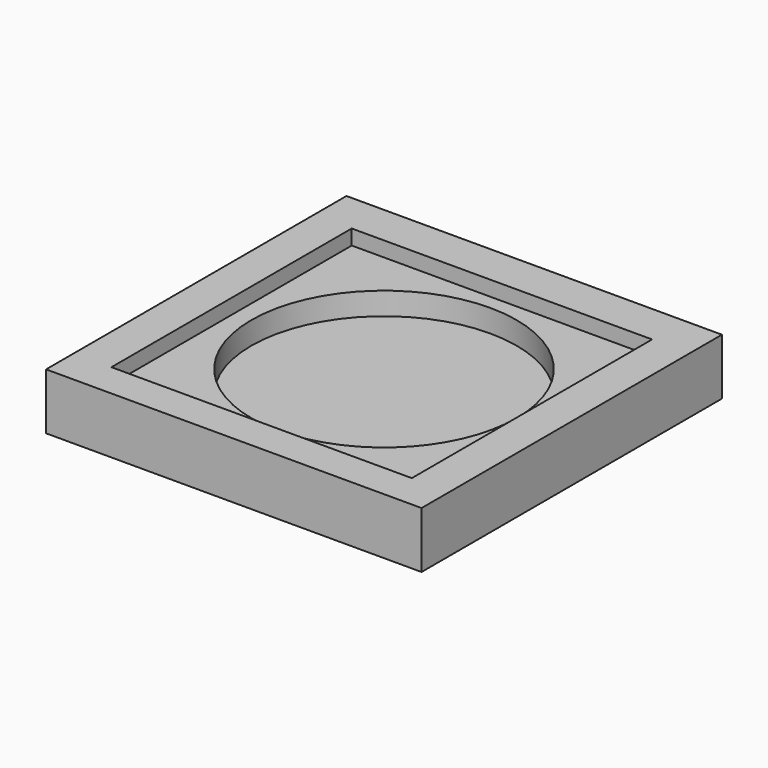
from build123d import *

# Parameters (mm, degrees)
F0_W     = 127
F0_H     = 127
F1_DEPTH = 7.62
F2_W     = 127
F2_H     = 127
F3_DEPTH = 11.43
F4_W     = 101.6
F4_H     = 101.6
F5_DEPTH = 5.08
F6_R     = 44.872379
F7_DEPTH = 7.62


with BuildPart() as f1:
    # F0 (on Top) → F1 (new body)
    with BuildSketch(Plane.XY):
        Rectangle(F0_W, F0_H)
    extrude(amount=F1_DEPTH)

    # F2 (on face) → F3 (join)
    with BuildSketch(Plane.XY.offset(7.62)):
        Rectangle(F2_W, F2_H)
    extrude(amount=F3_DEPTH)

    # F4 (on face) → F5 (cut)
    with BuildSketch(Plane.XY.offset(19.05)):
        with Locations((0, -0.944678)):
            Rectangle(F4_W, F4_H)
    extrude(amount=-F5_DEPTH, mode=Mode.SUBTRACT)

    # F6 (on face) → F7 (cut)
    with BuildSketch(Plane.XY.offset(13.97)):
        Circle(F6_R)
    extrude(amount=-F7_DEPTH, mode=Mode.SUBTRACT)


solid = f1.part
